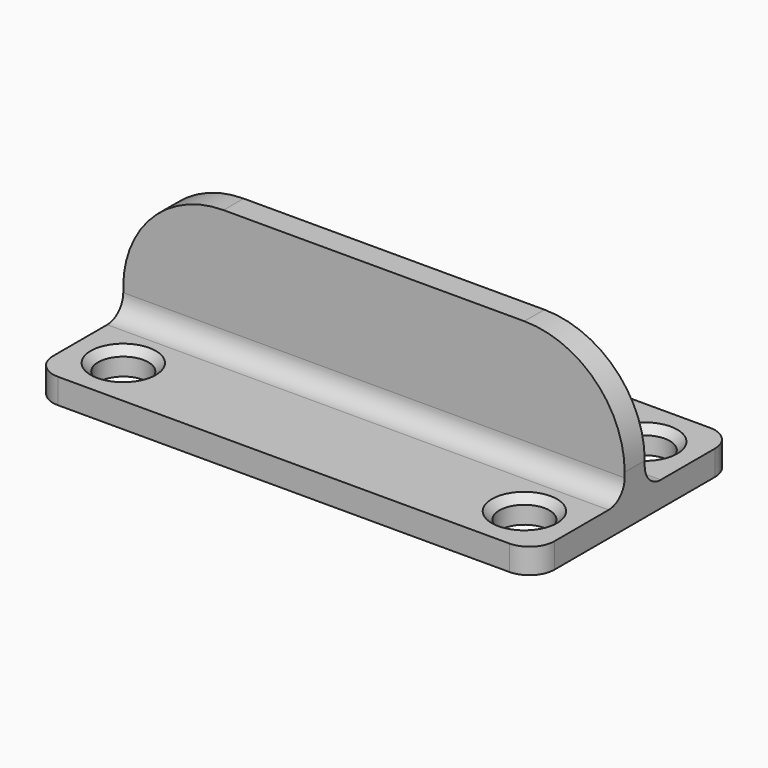
from build123d import *

# Parameters (mm, degrees)
SKETCH_R     = 5
PAD_DEPTH    = 5
PAD001_DEPTH = 2.5
FILLET_R     = 4
CHAMFER_SIZE = 1.5


with BuildPart() as part:
    # Sketch → Pad (new body)
    with BuildSketch(Plane.XY):
        with BuildLine():
            Line((-50, 20), (-50, -20))
            ThreePointArc((-50, -20), (-48.535534, -23.535534), (-45, -25))
            Line((-45, -25), (45, -25))
            ThreePointArc((45, -25), (48.535534, -23.535534), (50, -20))
            Line((50, -20), (50, 20))
            ThreePointArc((50, 20), (48.535534, 23.535534), (45, 25))
            Line((45, 25), (-45, 25))
            ThreePointArc((-45, 25), (-48.535534, 23.535534), (-50, 20))
        make_face()
        with Locations((-40, 15)):
            Circle(SKETCH_R, mode=Mode.SUBTRACT)
        with Locations((-40, -15)):
            Circle(SKETCH_R, mode=Mode.SUBTRACT)
        with Locations((40, -15)):
            Circle(SKETCH_R, mode=Mode.SUBTRACT)
        with Locations((40, 15)):
            Circle(SKETCH_R, mode=Mode.SUBTRACT)
    extrude(amount=PAD_DEPTH)

    # Sketch001 → Pad001 (join, symmetric)
    with BuildSketch(Plane.XZ):
        with BuildLine():
            Line((-30, 30), (30, 30))
            ThreePointArc((50, 10), (44.142136, 24.142136), (30, 30))
            Line((50, 10), (50, 5))
            Line((50, 5), (-50, 5))
            Line((-50, 5), (-50, 10))
            ThreePointArc((-30, 30), (-44.142136, 24.142136), (-50, 10))
        make_face()
    extrude(amount=PAD001_DEPTH, both=True)

    # Fillet
    fillet_edges = [part.edges().sort_by_distance(p)[0] for p in [
        (0, -2.5, 5),
        (0, 2.5, 5),
    ]]
    fillet(fillet_edges, radius=FILLET_R)

    # Chamfer
    chamfer_edges = [part.edges().sort_by_distance(p)[0] for p in [
        (-45, -15, 5),
        (-45, 15, 5),
        (35, 15, 5),
        (35, -15, 5),
    ]]
    chamfer(chamfer_edges, length=CHAMFER_SIZE)


solid = part.part
